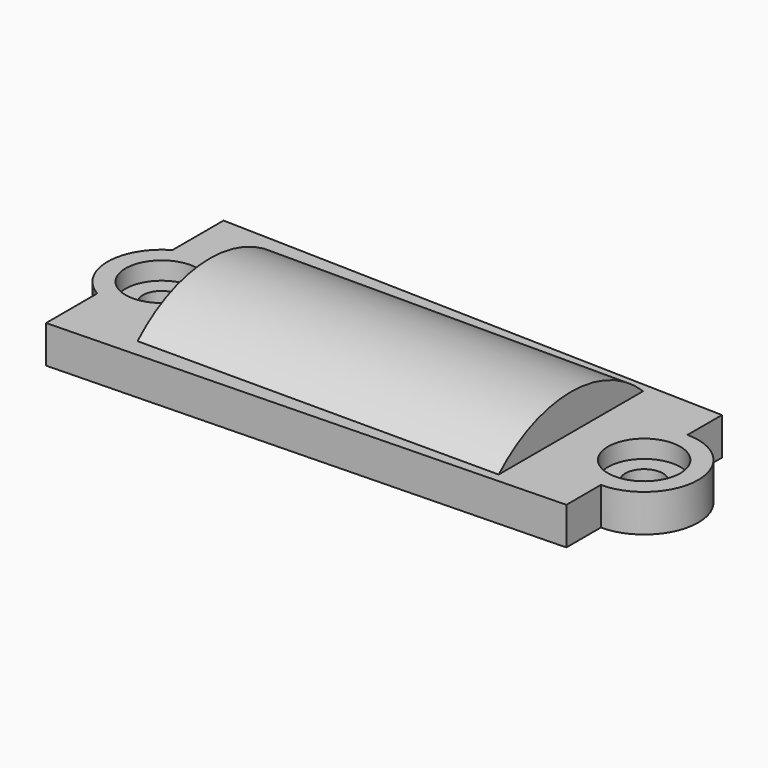
from build123d import *

# Parameters (mm, degrees)
F0_R     = 1.651
F1_DEPTH = 3.302
F2_R     = 3.175
F2_R_2   = 1.651
F3_DEPTH = 1.5748
F5_DEPTH = 15.875
F7_DEPTH = 14.2875


with BuildPart() as f1:
    # F0 (on Top) → F1 (new body)
    with BuildSketch(Plane.XY):
        with BuildLine():
            ThreePointArc((22.315054, -4.7625), (27.077554, 0), (22.315054, 4.7625))
            Line((22.315054, 4.7625), (22.315054, 8.5471))
            Line((22.315054, 8.5471), (-22.465146, 9.7536))
            Line((-22.465146, 9.7536), (-22.465146, 4.135386))
            ThreePointArc((-22.465146, 4.135386), (-24.865446, 0), (-22.465146, -4.135386))
            Line((-22.465146, -4.135386), (-22.465146, -9.7536))
            Line((-22.465146, -9.7536), (22.315054, -8.5471))
            Line((22.315054, -8.5471), (22.315054, -4.7625))
        make_face()
        with Locations((-20.102946, 0)):
            Circle(F0_R, mode=Mode.SUBTRACT)
        with Locations((22.315054, 0)):
            Circle(F0_R, mode=Mode.SUBTRACT)
    extrude(amount=F1_DEPTH)

    # F2 (on face) → F3 (cut)
    with BuildSketch(Plane.XY.offset(3.302)):
        with Locations((-20.102946, 0)):
            Circle(F2_R)
        with Locations((-20.102946, 0)):
            Circle(F2_R_2, mode=Mode.SUBTRACT)
        with Locations((22.315054, 0)):
            Circle(F2_R)
        with Locations((22.315054, 0)):
            Circle(F2_R_2, mode=Mode.SUBTRACT)
    extrude(amount=-F3_DEPTH, mode=Mode.SUBTRACT)

    # F4 (on Right) → F5 (join, symmetric)
    with BuildSketch(Plane.YZ):
        with BuildLine():
            ThreePointArc((7.9375, 3.302), (0, 6.477), (-7.9375, 3.302))
            Line((-7.9375, 3.302), (7.9375, 3.302))
        make_face()
    extrude(amount=F5_DEPTH, both=True)

    # F6 (on Right) → F7 (cut, symmetric)
    with BuildSketch(Plane.YZ):
        with BuildLine():
            ThreePointArc((6.35, 0), (0, 2.54), (-6.35, 0))
            Line((-6.35, 0), (6.35, 0))
        make_face()
    extrude(amount=F7_DEPTH, both=True, mode=Mode.SUBTRACT)


solid = f1.part
